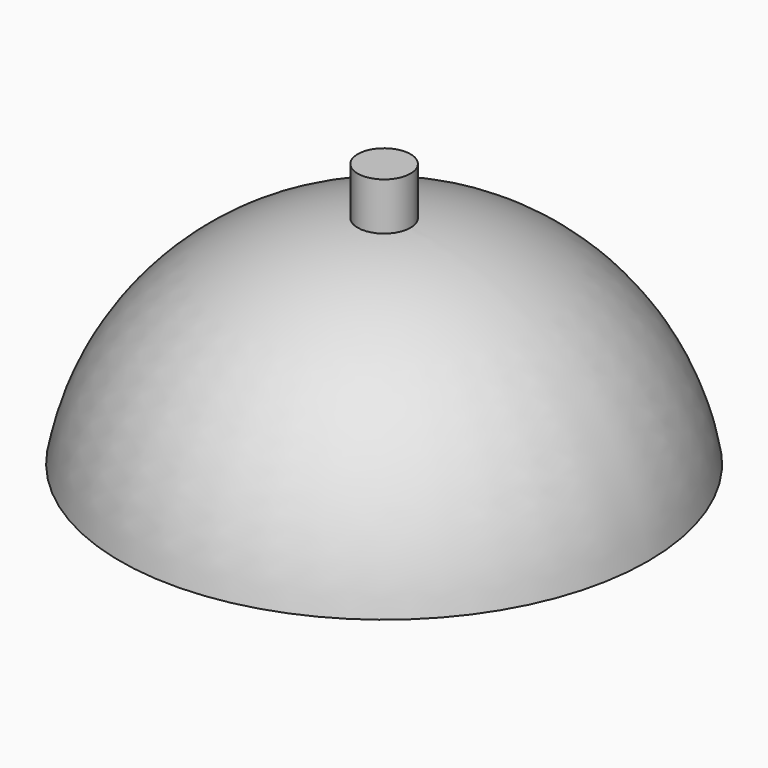
from build123d import *

# Parameters (mm, degrees)
F2_R     = 5
F3_DEPTH = 50


with BuildPart() as f1:
    # F0 (on Front) → F1 (revolve)
    with BuildSketch(Plane.XZ):
        with BuildLine():
            Line((0, 41.1495342851), (0, 0))
            Line((0, 0), (50, 0))
            ThreePointArc((50, 0), (32.5991698206, 29.8083708183), (0, 41.1495342851))
        make_face()
        with BuildLine():
            add(Edge.make_bspline(
                [(4.6960054897, 16.3427684456), (3.6378878565, 15.9159998467), (2.1175022142, 15.6517025184), (1.4238375436, 13.00356651), (2.4801311784, 8.4661375474), (3.5896369268, 11.1394726569), (3.9441401502, 13.7571015318), (7.3483378183, 12.9063429372), (7.0077969144, 15.7482875333), (8.4815055483, 15.9804629857), (8.7143368316, 18.366311168), (5.9880585004, 16.8638897612), (4.6960054897, 16.3427684456)],
                knots=[0, 0, 0, 0, 0.1065349886, 0.2148656358, 0.3369150584, 0.4225045817, 0.5261627859, 0.6288065838, 0.7223931964, 0.7968449993, 0.8699115784, 1, 1, 1, 1], degree=3))
        make_face(mode=Mode.SUBTRACT)
        with BuildLine():
            add(Edge.make_bspline(
                [(34.5319509506, 8.5497973487), (34.3217764958, 7.3373437649), (34.0514132633, 5.3218949093), (37.9681560329, 6.4821891071), (38.2195952532, 1.338415249), (39.420774383, 5.6915482649), (39.1167618557, 7.5522915429), (36.7709957872, 6.6098222011), (35.4209503677, 13.136931084), (34.750777133, 9.812160985), (34.5319509506, 8.5497973487)],
                knots=[0, 0, 0, 0, 0.1251815155, 0.2535687643, 0.3818563077, 0.5116399879, 0.6111931839, 0.7107463839, 0.8696654493, 1, 1, 1, 1], degree=3))
        make_face(mode=Mode.SUBTRACT)
        with BuildLine():
            add(Edge.make_bspline(
                [(34.5319509506, 11.5185482427), (35.0391424575, 12.5751984087), (32.0023413439, 13.3828103899), (28.9655402303, 14.190422371), (31.495149837, 12.3261602239), (34.0247594438, 10.4618980768), (34.5319509506, 11.5185482427)],
                knots=[0, 0, 0, 2.0943951024, 2.0943951024, 4.1887902048, 4.1887902048, 6.2831853072, 6.2831853072, 6.2831853072], degree=2, weights=[1, 0.5, 1, 0.5, 1, 0.5, 1]))
        make_face(mode=Mode.SUBTRACT)
        with BuildLine():
            add(Edge.make_bspline(
                [(29.5592918992, 20.4990189523), (29.7841910021, 21.0007142047), (30.6908709775, 23.500671496), (35.195478377, 23.085930719), (34.0799921307, 26.2998552299), (36.9837546629, 21.5479430444), (34.4506085968, 19.3336869687), (31.655769618, 19.7064892792), (28.1122819651, 12.7314519553), (29.2303921475, 19.9913119217), (29.4331429567, 20.2176113133), (29.5592918992, 20.4990189523)],
                knots=[0, 0, 0, 0, 0.1115577828, 0.2379578288, 0.3111895061, 0.4365942397, 0.5460372013, 0.6597103675, 0.7991688986, 0.9374257338, 1, 1, 1, 1], degree=3))
        make_face(mode=Mode.SUBTRACT)
        with BuildLine():
            add(Edge.make_bspline(
                [(6.9967866875, 30.2216783166), (6.6457656122, 30.0211339689), (7.422244072, 27.0744989652), (12.3523880455, 27.7787238212), (11.7281242801, 23.987337683), (13.6287615443, 27.2117798158), (12.915967393, 28.582865066), (10.3349560982, 29.609190697), (9.1937690919, 28.8999523579), (7.3500416522, 30.4234989235), (6.9967866875, 30.2216783166)],
                knots=[0, 0, 0, 0, 0.126943192, 0.2991518049, 0.4096736606, 0.5364763355, 0.6406224897, 0.7740552451, 0.8722489448, 1, 1, 1, 1], degree=3))
        make_face(mode=Mode.SUBTRACT)
        with BuildLine():
            add(Edge.make_bspline(
                [(20.8014789969, 27.6982393116), (20.8934845803, 28.5310393721), (20.6764740293, 30.7846235164), (26.0268449486, 30.2938169983), (25.3779329362, 35.202185222), (28.3424108608, 28.0906290788), (23.4310675679, 28.4953972836), (22.6327604064, 25.7117426776), (20.3457097798, 25.902961725), (20.7272699394, 27.0265267343), (20.8014789969, 27.6982393116)],
                knots=[0, 0, 0, 0, 0.1205219657, 0.2770151886, 0.3876539482, 0.5461066756, 0.687958044, 0.8102617689, 0.9027904487, 1, 1, 1, 1], degree=3))
        make_face(mode=Mode.SUBTRACT)
        with BuildLine():
            add(Edge.make_bspline(
                [(6.5514747985, 37.7177745104), (6.1360547823, 37.506860034), (6.1986823138, 33.7571440485), (10.7400815866, 34.2002742907), (13.0890359371, 31.784063009), (11.274299571, 36.5099408189), (8.4987649929, 35.7597251841), (6.9310138837, 37.9104717429), (6.5514747985, 37.7177745104)],
                knots=[0, 0, 0, 0, 0.1668609926, 0.3738089723, 0.5057231473, 0.681174352, 0.8475512348, 1, 1, 1, 1], degree=3))
        make_face(mode=Mode.SUBTRACT)
        with BuildLine():
            add(Edge.make_bspline(
                [(29.5592918992, 20.4990189523), (29.7841910021, 21.0007142047), (30.6908709775, 23.500671496), (35.195478377, 23.085930719), (34.0799921307, 26.2998552299), (36.9837546629, 21.5479430444), (34.4506085968, 19.3336869687), (31.655769618, 19.7064892792), (28.1122819651, 12.7314519553), (29.2303921475, 19.9913119217), (29.4331429567, 20.2176113133), (29.5592918992, 20.4990189523)],
                knots=[0, 0, 0, 0, 0.1115577828, 0.2379578288, 0.3111895061, 0.4365942397, 0.5460372013, 0.6597103675, 0.7991688986, 0.9374257338, 1, 1, 1, 1], degree=3))
        make_face()
        with BuildLine():
            add(Edge.make_bspline(
                [(4.6960054897, 16.3427684456), (3.6378878565, 15.9159998467), (2.1175022142, 15.6517025184), (1.4238375436, 13.00356651), (2.4801311784, 8.4661375474), (3.5896369268, 11.1394726569), (3.9441401502, 13.7571015318), (7.3483378183, 12.9063429372), (7.0077969144, 15.7482875333), (8.4815055483, 15.9804629857), (8.7143368316, 18.366311168), (5.9880585004, 16.8638897612), (4.6960054897, 16.3427684456)],
                knots=[0, 0, 0, 0, 0.1065349886, 0.2148656358, 0.3369150584, 0.4225045817, 0.5261627859, 0.6288065838, 0.7223931964, 0.7968449993, 0.8699115784, 1, 1, 1, 1], degree=3))
        make_face()
        with BuildLine():
            add(Edge.make_bspline(
                [(20.8014789969, 27.6982393116), (20.8934845803, 28.5310393721), (20.6764740293, 30.7846235164), (26.0268449486, 30.2938169983), (25.3779329362, 35.202185222), (28.3424108608, 28.0906290788), (23.4310675679, 28.4953972836), (22.6327604064, 25.7117426776), (20.3457097798, 25.902961725), (20.7272699394, 27.0265267343), (20.8014789969, 27.6982393116)],
                knots=[0, 0, 0, 0, 0.1205219657, 0.2770151886, 0.3876539482, 0.5461066756, 0.687958044, 0.8102617689, 0.9027904487, 1, 1, 1, 1], degree=3))
        make_face()
        with BuildLine():
            add(Edge.make_bspline(
                [(34.5319509506, 8.5497973487), (34.3217764958, 7.3373437649), (34.0514132633, 5.3218949093), (37.9681560329, 6.4821891071), (38.2195952532, 1.338415249), (39.420774383, 5.6915482649), (39.1167618557, 7.5522915429), (36.7709957872, 6.6098222011), (35.4209503677, 13.136931084), (34.750777133, 9.812160985), (34.5319509506, 8.5497973487)],
                knots=[0, 0, 0, 0, 0.1251815155, 0.2535687643, 0.3818563077, 0.5116399879, 0.6111931839, 0.7107463839, 0.8696654493, 1, 1, 1, 1], degree=3))
        make_face()
        with BuildLine():
            add(Edge.make_bspline(
                [(6.5514747985, 37.7177745104), (6.1360547823, 37.506860034), (6.1986823138, 33.7571440485), (10.7400815866, 34.2002742907), (13.0890359371, 31.784063009), (11.274299571, 36.5099408189), (8.4987649929, 35.7597251841), (6.9310138837, 37.9104717429), (6.5514747985, 37.7177745104)],
                knots=[0, 0, 0, 0, 0.1668609926, 0.3738089723, 0.5057231473, 0.681174352, 0.8475512348, 1, 1, 1, 1], degree=3))
        make_face()
        with BuildLine():
            add(Edge.make_bspline(
                [(6.9967866875, 30.2216783166), (6.6457656122, 30.0211339689), (7.422244072, 27.0744989652), (12.3523880455, 27.7787238212), (11.7281242801, 23.987337683), (13.6287615443, 27.2117798158), (12.915967393, 28.582865066), (10.3349560982, 29.609190697), (9.1937690919, 28.8999523579), (7.3500416522, 30.4234989235), (6.9967866875, 30.2216783166)],
                knots=[0, 0, 0, 0, 0.126943192, 0.2991518049, 0.4096736606, 0.5364763355, 0.6406224897, 0.7740552451, 0.8722489448, 1, 1, 1, 1], degree=3))
        make_face()
        with BuildLine():
            add(Edge.make_bspline(
                [(34.5319509506, 11.5185482427), (35.0391424575, 12.5751984087), (32.0023413439, 13.3828103899), (28.9655402303, 14.190422371), (31.495149837, 12.3261602239), (34.0247594438, 10.4618980768), (34.5319509506, 11.5185482427)],
                knots=[0, 0, 0, 2.0943951024, 2.0943951024, 4.1887902048, 4.1887902048, 6.2831853072, 6.2831853072, 6.2831853072], degree=2, weights=[1, 0.5, 1, 0.5, 1, 0.5, 1]))
        make_face()
    revolve(axis=Axis((0, 0, 20.5747671425), (0, 0, 1)))


with BuildPart() as f3:
    # F2 (on Top) → F3 (new body)
    with BuildSketch(Plane.XY):
        Circle(F2_R)
    extrude(amount=F3_DEPTH)


solid = Compound([f1.part, f3.part])
